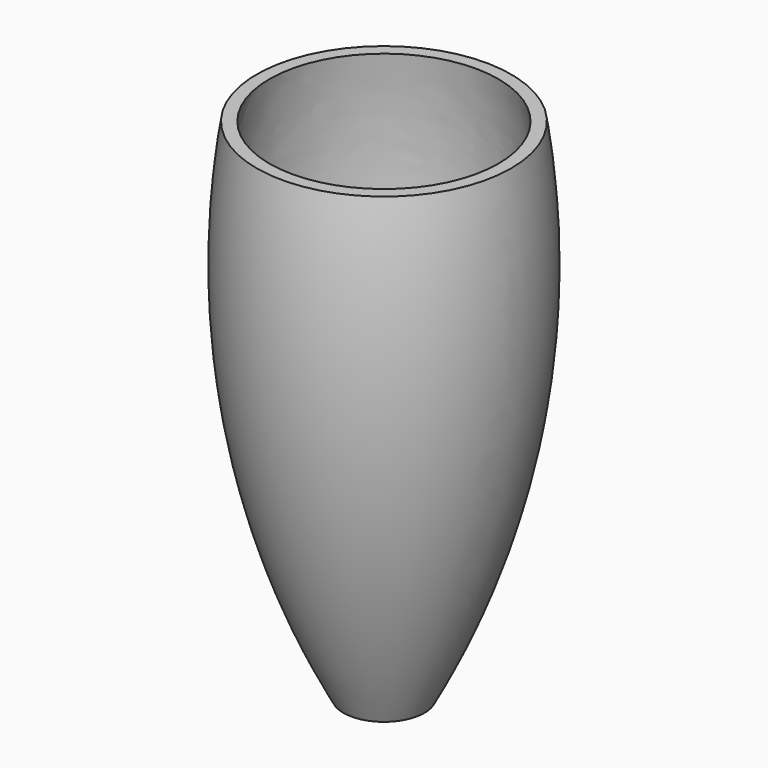
from build123d import *

# Parameters (mm, degrees)
F2_T = -2.54


with BuildPart() as f1:
    # F0 (on Front) → F1 (revolve)
    with BuildSketch(Plane.XZ):
        with BuildLine():
            Line((25.649834, 56.400493), (0, 56.400493))
            Line((0, 56.400493), (0, -45.907374))
            Line((0, -45.907374), (8.161312, -45.907374))
            ThreePointArc((8.161312, -45.907374), (25.333577, 3.805875), (25.649834, 56.400493))
        make_face()
    revolve(axis=Axis((0, 0, 5.246559), (0, 0, 1)))

    # F2
    f2_openings = [f1.faces().sort_by_distance(p)[0] for p in [
        (0, 0, 56.400493),
    ]]
    offset(amount=F2_T, openings=f2_openings)


solid = f1.part
